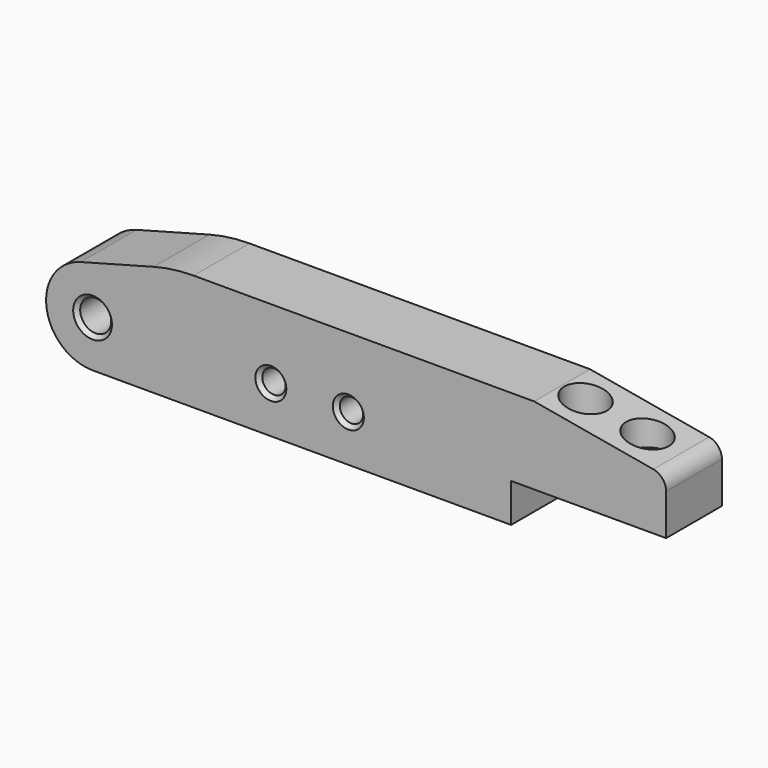
from build123d import *

# Parameters (mm, degrees)
F0_R           = 2
F0_R_2         = 1.5
F1_DEPTH       = 4.5
F2_R           = 2
F3_R           = 20
F4_SIZE        = 0.5
F6_D           = 3.5
F6_CBORE_D     = 5.5
F6_CBORE_DEPTH = 4.9


with BuildPart() as f1:
    # F0 (on Front) → F1 (new body, symmetric)
    with BuildSketch(Plane.XZ):
        with BuildLine():
            Line((10.406237, 9), (-1.552914, 5.795555))
            ThreePointArc((-1.552914, 5.795555), (-5.948669, -0.783157), (0, -6))
            Line((0, -6), (54, -6))
            Line((54, -6), (54, -1))
            Line((54, -1), (74, -1))
            Line((74, -1), (74, 6))
            Line((74, 6), (56.986155, 9))
            Line((56.986155, 9), (10.406237, 9))
        make_face()
        Circle(F0_R, mode=Mode.SUBTRACT)
        with Locations((23, 0)):
            Circle(F0_R_2, mode=Mode.SUBTRACT)
        with Locations((33, 0)):
            Circle(F0_R_2, mode=Mode.SUBTRACT)
    extrude(amount=F1_DEPTH, both=True)

    # F2
    f2_edges = [f1.edges().sort_by_distance(p)[0] for p in [
        (74, 0, 6),
    ]]
    fillet(f2_edges, radius=F2_R)

    # F3
    f3_edges = [f1.edges().sort_by_distance(p)[0] for p in [
        (10.406237, 0, 9),
    ]]
    fillet(f3_edges, radius=F3_R)

    # F4
    f4_edges = [f1.edges().sort_by_distance(p)[0] for p in [
        (-2, -4.5, 0),
        (21.5, -4.5, 0),
        (31.5, -4.5, 0),
        (-2, 4.5, 0),
        (21.5, 4.5, 0),
        (31.5, 4.5, 0),
    ]]
    chamfer(f4_edges, length=F4_SIZE)

    # F6 (through all)
    with Locations(Plane.XY.offset(9)):
        with Locations((60, 0), (68, 0)):
            CounterBoreHole(F6_D / 2, F6_CBORE_D / 2, F6_CBORE_DEPTH)


solid = f1.part
